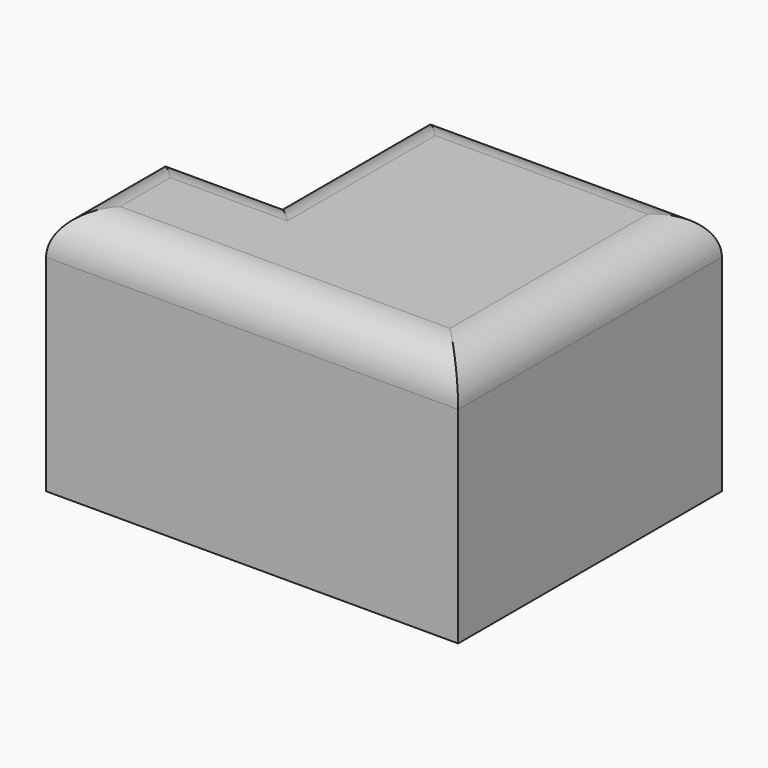
from build123d import *

# Parameters (mm, degrees)
F1_DEPTH = 76.2
F2_R     = 12.7


with BuildPart() as f1:
    # F0 (on Top) → F1 (new body)
    with BuildSketch(Plane.XY):
        Polygon((0, 44.692902), (0, 0), (127, 0), (127, 101.6), (36.097512, 101.6), (36.097512, 44.692902), align=None)
    extrude(amount=F1_DEPTH)

    # F2
    f2_edges = [f1.edges().sort_by_distance(p)[0] for p in [
        (127, 50.8, 76.2),
        (81.548756, 101.6, 76.2),
        (36.097512, 73.146451, 76.2),
        (18.048756, 44.692902, 76.2),
        (0, 22.346451, 76.2),
        (63.5, 0, 76.2),
    ]]
    fillet(f2_edges, radius=F2_R)


solid = f1.part
